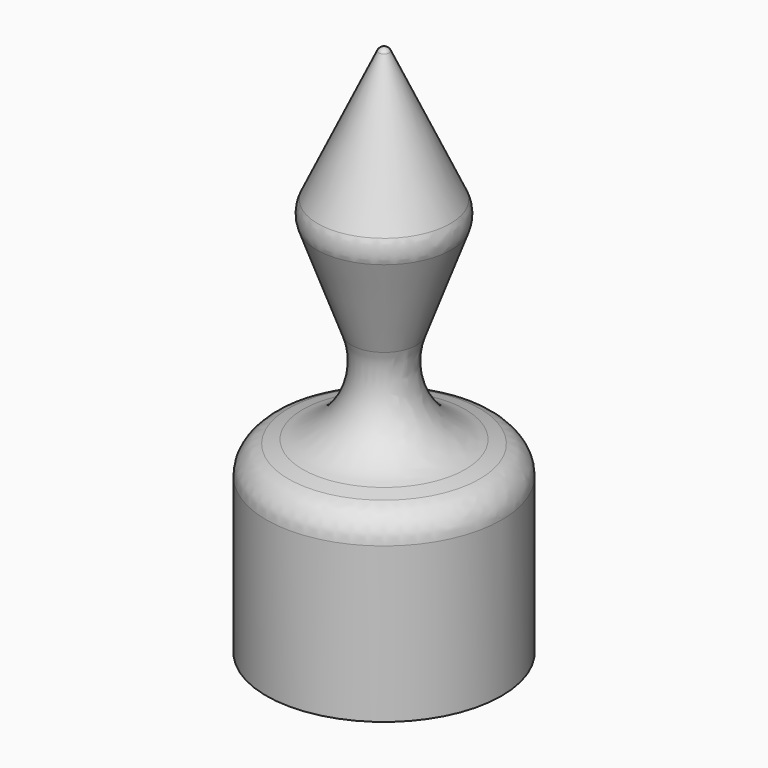
from build123d import *

# Parameters (mm, degrees)
F5_R      = 12
F6_R      = 5
F9_R      = 4.2
F9_R_2    = 3
F10_DEPTH = 28
F11_R     = 3


with BuildPart() as f2:
    # F0 (on Front) → F2 (revolve)
    with BuildSketch(Plane.XZ):
        Polygon((17.75, -7.1372333806), (17.75, -35.1372333806), (19.75, -35.1372333806), (19.75, -5.2919965505), (0, 0), (0, -7.1372333806), align=None)
    revolve(axis=Axis((0, 0, -15.6453922391), (0, 0, -1)))

    # F3 (on Front) → F4 (revolve)
    with BuildSketch(Plane.XZ):
        with BuildLine():
            Line((0, 54.3376104964), (0, -3))
            Line((0, -3), (12, 29.9697290335))
            Line((12, 29.9697290335), (0.906307787, 53.7602287582))
            ThreePointArc((0.906307787, 53.7602287582), (0.5372996083, 54.1810019422), (0, 54.3376104964))
        make_face()
    revolve(axis=Axis((0, 0, 25.6688052482), (0, 0, 1)))

    # F5
    f5_edges = [f2.edges().sort_by_distance(p)[0] for p in [
        (-0.994884, 0, -0.266578),
    ]]
    fillet(f5_edges, radius=F5_R)

    # F6
    f6_edges = [f2.edges().sort_by_distance(p)[0] for p in [
        (-12, 0, 29.969729),
        (-19.75, 0, -5.291997),
    ]]
    fillet(f6_edges, radius=F6_R)

    # F7 (on Front) → F8 (revolve, cut)
    with BuildSketch(Plane.XZ):
        Polygon((3, 45.484368785), (0, 51.9178895465), (0, -35.1372333806), (3, -35.1372333806), (3, 15), (4.8487797808, 15), (10.2698207956, 29.894187778), (5.3315382908, 40.484368785), (3, 40.484368785), align=None)
    revolve(axis=Axis((0, 0, -15.6453922391), (0, 0, -1)), mode=Mode.SUBTRACT)

    # F9 (on face) → F10 (join, through all)
    with BuildSketch(Plane(origin=(0, 0, -35.1372333806), x_dir=(1, 0, 0), z_dir=(0, 0, -1))):
        Circle(F9_R)
        Circle(F9_R_2, mode=Mode.SUBTRACT)
    extrude(amount=-F10_DEPTH)

    # F11
    f11_edges = [f2.edges().sort_by_distance(p)[0] for p in [
        (-17.75, 0, -7.137233),
        (-4.2, 0, -7.137233),
    ]]
    fillet(f11_edges, radius=F11_R)


solid = f2.part
